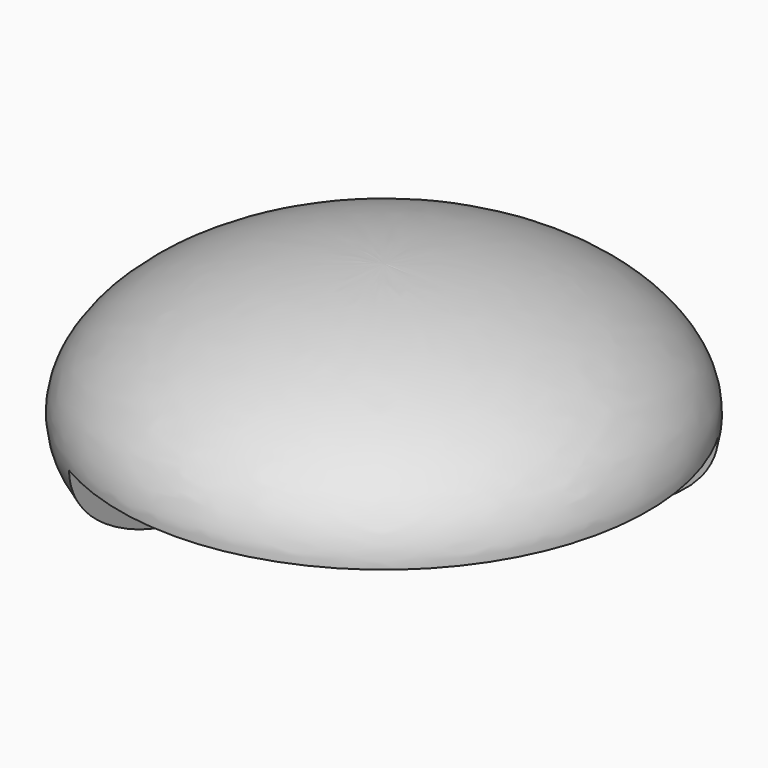
from build123d import *

# Parameters (mm, degrees)
F2_W     = 19.05
F2_H     = 19.05
F3_DEPTH = 6.35


with BuildPart() as f1:
    # F0 (on Front) → F1 (revolve)
    with BuildSketch(Plane.XZ):
        with BuildLine():
            Line((0, -6.35), (0, 6.35))
            add(Edge.make_bspline(
                [(0, 6.35), (-7.363734, 6.35), (-18.15783, 0), (-7.120607, -6.35), (0, -6.35)],
                knots=[0, 0, 0, 0, 14.199032, 28.398063, 28.398063, 28.398063, 28.398063], degree=3))
        make_face()
    revolve(axis=Axis((0, 0, 0), (0, 0, -1)))

    # F2 (on Top) → F3 (cut)
    with BuildSketch(Plane.XY):
        with Locations((3.175, -3.175)):
            Rectangle(F2_W, F2_H)
    extrude(amount=-F3_DEPTH, mode=Mode.SUBTRACT)


solid = f1.part
